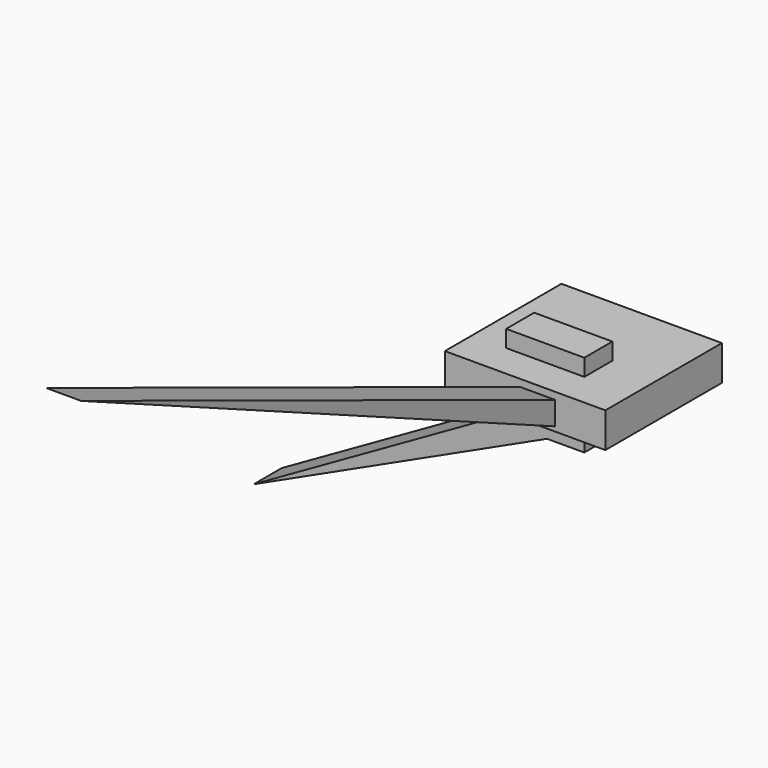
from build123d import *

# Parameters (mm, degrees)
F0_W     = 61.931412667
F0_H     = 55.6655190885
F0_H_2   = 49.976002425
F0_W_2   = 54.4153526425
F1_DEPTH = 25.4
F2_W     = 29.6337604523
F2_H     = 28.9934612811
F2_W_2   = 27.0190127194
F3_DEPTH = 25.4
F5_DEPTH = 25.4


with BuildPart() as f1:
    # F0 (on Top) → F1 (new body)
    with BuildSketch(Plane.XY):
        with Locations((30.9657063335, 27.8327595443)):
            Rectangle(F0_W, F0_H)
        with Locations((30.9657063335, -24.9880012125)):
            Rectangle(F0_W, F0_H_2)
        with Locations((-27.2076763213, -24.9880012125)):
            Rectangle(F0_W_2, F0_H_2)
        with Locations((-27.2076763213, 27.8327595443)):
            Rectangle(F0_W_2, F0_H)
    extrude(amount=F1_DEPTH)

    # F2 (on Front) → F3 (join)
    with BuildSketch(Plane.XZ):
        Polygon((0, 0), (0, 8.6490437388), (-29.6337604523, 8.6490437388), (-29.6337604523, -16.8678652386), align=None)
        with Locations((-14.8168802261, 23.1457743794)):
            Rectangle(F2_W, F2_H)
        with Locations((13.5095063597, 23.1457743794)):
            Rectangle(F2_W_2, F2_H)
        Polygon((27.0190127194, 8.6490437388), (0, 8.6490437388), (0, 0), (0, -22.8965952992), (27.0190127194, -22.8965952992), align=None)
        Polygon((0, -22.8965952992), (0, 0), (-29.6337604523, -16.8678652386), (-29.6337604523, -22.8965952992), align=None)
        Polygon((-29.6337604523, -22.8965952992), (-29.6337604523, -16.8678652386), (-212.6657664776, -121.0517138243), (0, -22.8965952992), align=None)
    extrude(amount=F3_DEPTH)

    # F4 (on Right) → F5 (join)
    with BuildSketch(Plane.YZ):
        Polygon((0, -18.9130362123), (0, 0), (-479.4011116028, 194.1131353378), align=None)
    extrude(amount=F5_DEPTH)


solid = f1.part
